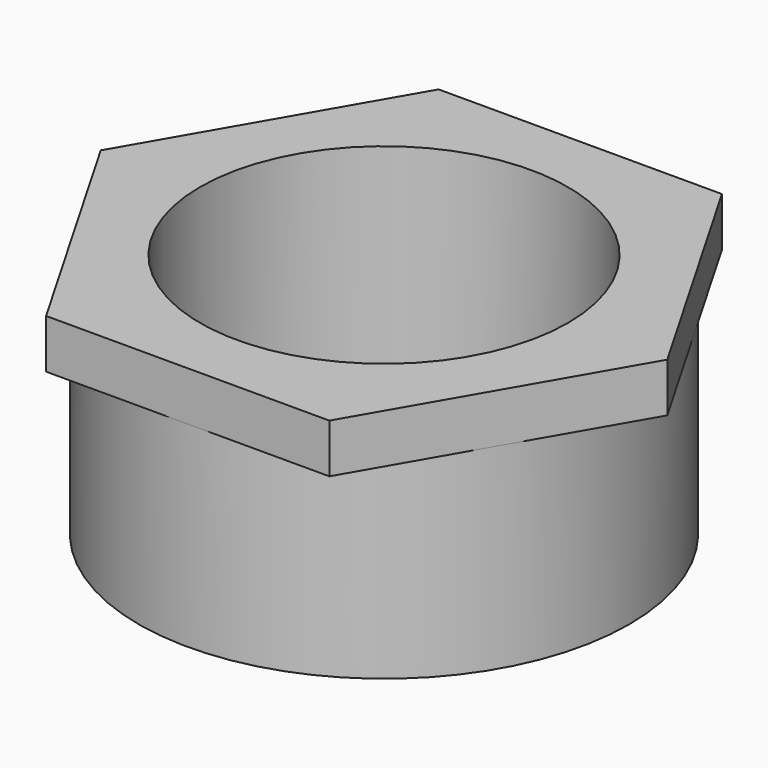
from build123d import *

# Parameters (mm, degrees)
F0_R     = 12.7
F0_R_2   = 9.525
F1_DEPTH = 12.7
F2_R     = 9.525
F3_DEPTH = 2.54


with BuildPart() as f1:
    # F0 (on Top) → F1 (new body)
    with BuildSketch(Plane.XY):
        Circle(F0_R)
        Circle(F0_R_2, mode=Mode.SUBTRACT)
    extrude(amount=F1_DEPTH)

    # F2 (on face) → F3 (join)
    with BuildSketch(Plane.XY.offset(12.7)):
        Polygon((7.3323484187, 12.7), (-7.3323484187, 12.7), (-14.6646968374, 0), (-7.3323484187, -12.7), (7.3323484187, -12.7), (14.6646968374, 0), align=None)
        Circle(F2_R, mode=Mode.SUBTRACT)
    extrude(amount=-F3_DEPTH)


solid = f1.part
